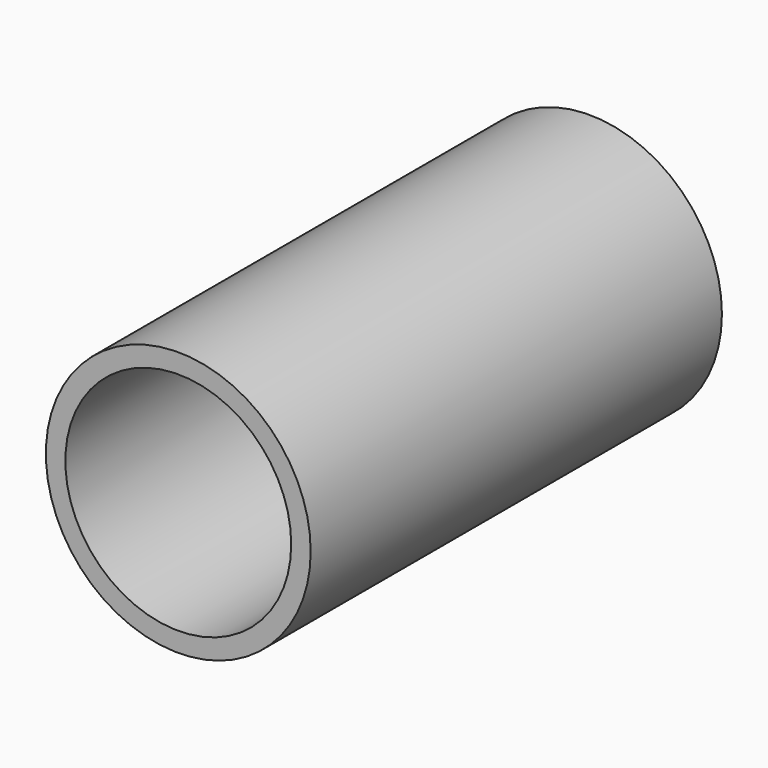
from build123d import *

# Parameters (mm, degrees)
F0_R     = 8.5
F0_W     = 6.55
F0_H     = 6.55
F1_DEPTH = 33
F3_DEPTH = 25
F4_R     = 7.25
F5_DEPTH = 23


with BuildPart() as f1:
    # F0 (on Front) → F1 (new body)
    with BuildSketch(Plane.XZ):
        Circle(F0_R)
        Rectangle(F0_W, F0_H, mode=Mode.SUBTRACT)
    extrude(amount=F1_DEPTH)

    # F2 (on face) → F3 (cut)
    with BuildSketch(Plane.XZ.offset(33)):
        Polygon((-3.275, -3.243106), (-3.275, 2.389649), (-4.451013, 1.233619), (-3.293852, -3.237881), align=None)
        Polygon((1.157162, -4.4715), (2.374344, -3.275), (-3.159923, -3.275), align=None)
        Polygon((4.451013, -1.233619), (3.293852, 3.237881), (3.275, 3.243106), (3.275, -2.389649), align=None)
        Polygon((-2.374344, 3.275), (3.159923, 3.275), (-1.157162, 4.4715), align=None)
    extrude(amount=-F3_DEPTH, mode=Mode.SUBTRACT)

    # F4 (on face) → F5 (cut)
    with BuildSketch(Plane.XZ.offset(33)):
        Circle(F4_R)
        Polygon((-1.157162, 4.4715), (3.159923, 3.275), (3.275, 3.275), (3.275, 3.243106), (3.293852, 3.237881), (4.451013, -1.233619), (3.275, -2.389649), (3.275, -3.275), (2.374344, -3.275), (1.157162, -4.4715), (-3.159923, -3.275), (-3.275, -3.275), (-3.275, -3.243106), (-3.293852, -3.237881), (-4.451013, 1.233619), (-3.275, 2.389649), (-3.275, 3.275), (-2.374344, 3.275), align=None, mode=Mode.SUBTRACT)
    extrude(amount=-F5_DEPTH, mode=Mode.SUBTRACT)


solid = f1.part
